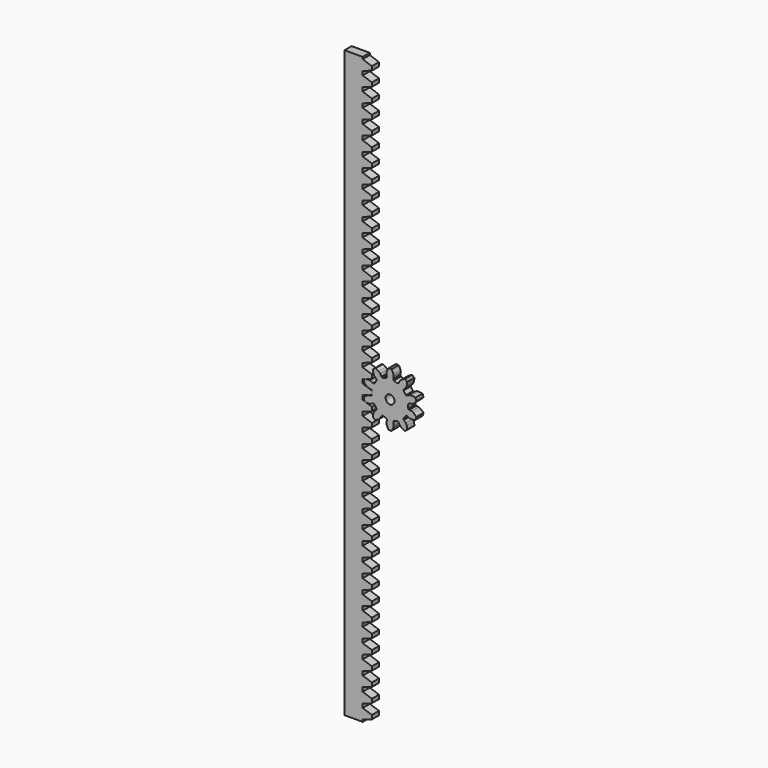
from build123d import *

# Parameters (mm, degrees)
F0_R     = 2.5
F1_DEPTH = 5


with BuildPart() as f1:
    # F0 (on Front) → F1 (new body)
    with BuildSketch(Plane.XZ):
        Polygon((-8.275246, 5.651561), (-8.825646, 5.463313), (-9.132944, 4.721432), (-9.320402, 3.940612), (-8.985768, 3.464799), (-7.869158, 2.427845), (-7.016551, 1.91794), (-6.610978, 1.779225), (-6.493846, 1.789717), (-5.307443, 1.614694), (-4.737787, 1.138556), (-4.737787, -1.138556), (-5.307443, -1.614694), (-6.493846, -1.789717), (-6.610978, -1.779225), (-7.016551, -1.91794), (-7.869158, -2.427845), (-8.985768, -3.464799), (-9.320402, -3.940612), (-9.132944, -4.721432), (-8.825646, -5.463313), (-8.275246, -5.651561), (-6.762383, -5.834148), (-5.772895, -5.745521), (-5.363245, -5.619353), (-5.27465, -5.542016), (-4.211954, -4.986263), (-3.471226, -5.036631), (-2.132773, -6.878854), (-2.313767, -7.598893), (-3.170711, -8.437839), (-3.27164, -8.4982), (-3.518222, -8.848812), (-3.90828, -9.762484), (-4.20213, -11.257725), (-4.193179, -11.839358), (-3.582568, -12.360869), (-2.897892, -12.780439), (-2.341959, -12.609218), (-1.010706, -11.867695), (-0.262287, -11.214387), (-0.005033, -10.871529), (0.021185, -10.756887), (0.55426, -9.682637), (1.183128, -9.287996), (3.34879, -9.991663), (3.625591, -10.680573), (3.425429, -11.862993), (3.379255, -11.971151), (3.385851, -12.399739), (3.60733, -13.368186), (4.248481, -14.750582), (4.597598, -15.215871), (5.398129, -15.278875), (6.198661, -15.215871), (6.547778, -14.750582), (7.188929, -13.368186), (7.410408, -12.399739), (7.417004, -11.971151), (7.37083, -11.862993), (7.170668, -10.680573), (7.447468, -9.991663), (9.613131, -9.287996), (10.241999, -9.682637), (10.775074, -10.756887), (10.801292, -10.871529), (11.058546, -11.214387), (11.806965, -11.867695), (13.138218, -12.609218), (13.694151, -12.780439), (14.378827, -12.360869), (14.989438, -11.839358), (14.998389, -11.257725), (14.704539, -9.762484), (14.314481, -8.848812), (14.067899, -8.4982), (13.96697, -8.437839), (13.110026, -7.598893), (12.929031, -6.878854), (14.267485, -5.036631), (15.008213, -4.986263), (16.070908, -5.542016), (16.159504, -5.619353), (16.569154, -5.745521), (17.558642, -5.834148), (19.071505, -5.651561), (19.621905, -5.463313), (19.929203, -4.721432), (20.116661, -3.940612), (19.782027, -3.464799), (18.665417, -2.427845), (17.81281, -1.91794), (17.407237, -1.779225), (17.290104, -1.789717), (16.103702, -1.614694), (15.534046, -1.138556), (15.534046, 1.138556), (16.103702, 1.614694), (17.290104, 1.789717), (17.407237, 1.779225), (17.81281, 1.91794), (18.665417, 2.427845), (19.782027, 3.464799), (20.116661, 3.940612), (19.929203, 4.721432), (19.621905, 5.463313), (19.071505, 5.651561), (17.558642, 5.834148), (16.569154, 5.745521), (16.159504, 5.619353), (16.070908, 5.542016), (15.008213, 4.986263), (14.267485, 5.036631), (12.929031, 6.878854), (13.110026, 7.598893), (13.96697, 8.437839), (14.067899, 8.4982), (14.314481, 8.848812), (14.704539, 9.762484), (14.998389, 11.257725), (14.989438, 11.839358), (14.378827, 12.360869), (13.694151, 12.780439), (13.138218, 12.609218), (11.806965, 11.867695), (11.058546, 11.214387), (10.801292, 10.871529), (10.775074, 10.756887), (10.241999, 9.682637), (9.613131, 9.287996), (7.447468, 9.991663), (7.170668, 10.680573), (7.37083, 11.862993), (7.417004, 11.971151), (7.410408, 12.399739), (7.188929, 13.368186), (6.547778, 14.750582), (6.198661, 15.215871), (5.398129, 15.278875), (4.597598, 15.215871), (4.248481, 14.750582), (3.60733, 13.368186), (3.385851, 12.399739), (3.379255, 11.971151), (3.425429, 11.862993), (3.625591, 10.680573), (3.34879, 9.991663), (1.183128, 9.287996), (0.55426, 9.682637), (0.021185, 10.756887), (-0.005033, 10.871529), (-0.262287, 11.214387), (-1.010706, 11.867695), (-2.341959, 12.609218), (-2.897892, 12.780439), (-3.582568, 12.360869), (-4.193179, 11.839358), (-4.20213, 11.257725), (-3.90828, 9.762484), (-3.518222, 8.848812), (-3.27164, 8.4982), (-3.170711, 8.437839), (-2.313767, 7.598893), (-2.132773, 6.878854), (-3.471226, 5.036631), (-4.211954, 4.986263), (-5.27465, 5.542016), (-5.363245, 5.619353), (-5.772895, 5.745521), (-6.762383, 5.834148), align=None)
        with Locations((5.39813, -1e-06)):
            Circle(F0_R, mode=Mode.SUBTRACT)
        Polygon((-9.930745, -164), (-9.930745, -162.874746), (-4.787787, -161.115751), (-4.787787, -158.884249), (-9.930745, -157.125254), (-9.930745, -154.874746), (-4.787787, -153.115751), (-4.787787, -150.884249), (-9.930745, -149.125254), (-9.930745, -146.874746), (-4.787787, -145.115751), (-4.787787, -142.884249), (-9.930745, -141.125254), (-9.930745, -138.874746), (-4.787787, -137.115751), (-4.787787, -134.884249), (-9.930745, -133.125254), (-9.930745, -130.874746), (-4.787787, -129.115751), (-4.787787, -126.884249), (-9.930745, -125.125254), (-9.930745, -122.874746), (-4.787787, -121.115751), (-4.787787, -118.884249), (-9.930745, -117.125254), (-9.930745, -114.874746), (-4.787787, -113.115751), (-4.787787, -110.884249), (-9.930745, -109.125254), (-9.930745, -106.874746), (-4.787787, -105.115751), (-4.787787, -102.884249), (-9.930745, -101.125254), (-9.930745, -98.874746), (-4.787787, -97.115751), (-4.787787, -94.884249), (-9.930745, -93.125254), (-9.930745, -90.874746), (-4.787787, -89.115751), (-4.787787, -86.884249), (-9.930745, -85.125254), (-9.930745, -82.874746), (-4.787787, -81.115751), (-4.787787, -78.884249), (-9.930745, -77.125254), (-9.930745, -74.874746), (-4.787787, -73.115751), (-4.787787, -70.884249), (-9.930745, -69.125254), (-9.930745, -66.874746), (-4.787787, -65.115751), (-4.787787, -62.884249), (-9.930745, -61.125254), (-9.930745, -58.874746), (-4.787787, -57.115751), (-4.787787, -54.884249), (-9.930745, -53.125254), (-9.930745, -50.874746), (-4.787787, -49.115751), (-4.787787, -46.884249), (-9.930745, -45.125254), (-9.930745, -42.874746), (-4.787787, -41.115751), (-4.787787, -38.884249), (-9.930745, -37.125254), (-9.930745, -34.874746), (-4.787787, -33.115751), (-4.787787, -30.884249), (-9.930745, -29.125254), (-9.930745, -26.874746), (-4.787787, -25.115751), (-4.787787, -22.884249), (-9.930745, -21.125254), (-9.930745, -18.874746), (-4.787787, -17.115751), (-4.787787, -14.884249), (-9.930745, -13.125254), (-9.930745, -10.874746), (-4.787787, -9.115751), (-4.787787, -6.884249), (-9.930745, -5.125254), (-9.930745, -2.874746), (-4.787787, -1.115751), (-4.787787, 1.115751), (-9.930745, 2.874746), (-9.930745, 5.125254), (-4.787787, 6.884249), (-4.787787, 9.115751), (-9.930745, 10.874746), (-9.930745, 13.125254), (-4.787787, 14.884249), (-4.787787, 17.115751), (-9.930745, 18.874746), (-9.930745, 21.125254), (-4.787787, 22.884249), (-4.787787, 25.115751), (-9.930745, 26.874746), (-9.930745, 29.125254), (-4.787787, 30.884249), (-4.787787, 33.115751), (-9.930745, 34.874746), (-9.930745, 37.125254), (-4.787787, 38.884249), (-4.787787, 41.115751), (-9.930745, 42.874746), (-9.930745, 45.125254), (-4.787787, 46.884249), (-4.787787, 49.115751), (-9.930745, 50.874746), (-9.930745, 53.125254), (-4.787787, 54.884249), (-4.787787, 57.115751), (-9.930745, 58.874746), (-9.930745, 61.125254), (-4.787787, 62.884249), (-4.787787, 65.115751), (-9.930745, 66.874746), (-9.930745, 69.125254), (-4.787787, 70.884249), (-4.787787, 73.115751), (-9.930745, 74.874746), (-9.930745, 77.125254), (-4.787787, 78.884249), (-4.787787, 81.115751), (-9.930745, 82.874746), (-9.930745, 85.125254), (-4.787787, 86.884249), (-4.787787, 89.115751), (-9.930745, 90.874746), (-9.930745, 93.125254), (-4.787787, 94.884249), (-4.787787, 97.115751), (-9.930745, 98.874746), (-9.930745, 101.125254), (-4.787787, 102.884249), (-4.787787, 105.115751), (-9.930745, 106.874746), (-9.930745, 109.125254), (-4.787787, 110.884249), (-4.787787, 113.115751), (-9.930745, 114.874746), (-9.930745, 117.125254), (-4.787787, 118.884249), (-4.787787, 121.115751), (-9.930745, 122.874746), (-9.930745, 125.125254), (-4.787787, 126.884249), (-4.787787, 129.115751), (-9.930745, 130.874746), (-9.930745, 133.125254), (-4.787787, 134.884249), (-4.787787, 137.115751), (-9.930745, 138.874746), (-9.930745, 141.125254), (-4.787787, 142.884249), (-4.787787, 145.115751), (-9.930745, 146.874746), (-9.930745, 149.125254), (-4.787787, 150.884249), (-4.787787, 153.115751), (-9.930745, 154.874746), (-9.930745, 157.125254), (-4.787787, 158.884249), (-4.787787, 161.115751), (-9.930745, 162.874746), (-9.930745, 164), (-20.116661, 164), (-20.116661, -164), align=None)
    extrude(amount=F1_DEPTH)


solid = f1.part
